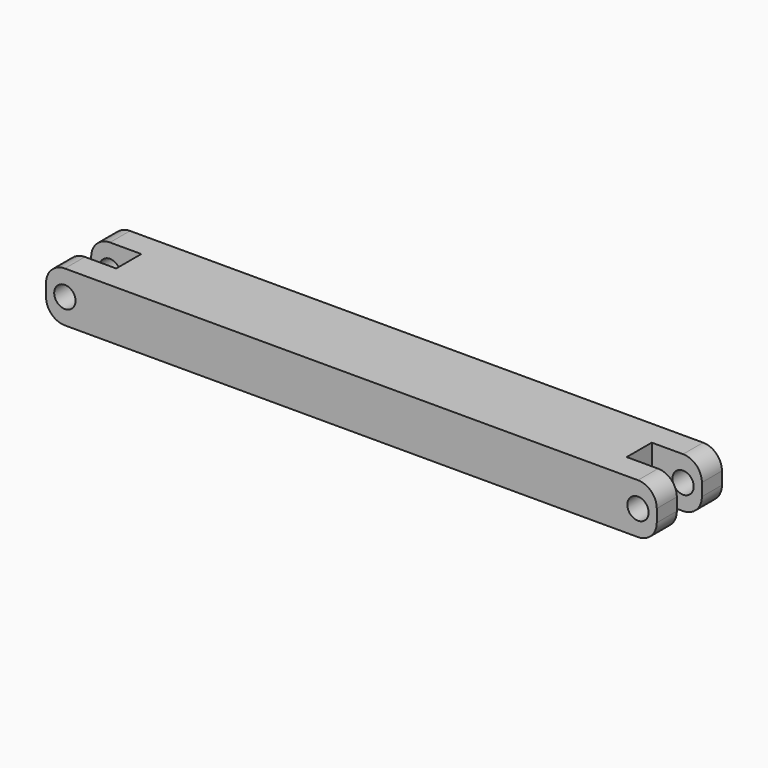
from build123d import *

# Parameters (mm, degrees)
SKETCH_W        = 97.5
SKETCH_H        = 13
PAD_DEPTH       = 8
SKETCH001_R     = 1.7
POCKET_DEPTH    = 20
SKETCH002_W     = 8
SKETCH002_H     = 5
POCKET001_DEPTH = 20
FILLET_R        = 3


with BuildPart() as part:
    # Sketch → Pad (new body)
    with BuildSketch(Plane.XY):
        with Locations((1.25, 0)):
            Rectangle(SKETCH_W, SKETCH_H)
    extrude(amount=PAD_DEPTH)

    # Sketch001 (on Face1 of Pad) → Pocket (cut)
    with BuildSketch(Plane.XZ.offset(6.5)):
        with Locations((-44.5, 4)):
            Circle(SKETCH001_R)
        with Locations((47, 4)):
            Circle(SKETCH001_R)
    extrude(amount=-POCKET_DEPTH, mode=Mode.SUBTRACT)

    # Sketch002 (on Face4 of Pocket) → Pocket001 (cut)
    with BuildSketch(Plane.XY.offset(8)):
        with Locations((-43.5, 0)):
            Rectangle(SKETCH002_W, SKETCH002_H)
        with Locations((46, 0)):
            Rectangle(SKETCH002_W, SKETCH002_H)
    extrude(amount=-POCKET001_DEPTH, mode=Mode.SUBTRACT)

    # Fillet
    fillet_edges = [part.edges().sort_by_distance(p)[0] for p in [
        (50, 4.5, 8),
        (50, -4.5, 8),
        (50, -4.5, 0),
        (50, 4.5, 0),
        (-47.5, -4.5, 8),
        (-47.5, -4.5, 0),
        (-47.5, 4.5, 0),
        (-47.5, 4.5, 8),
    ]]
    fillet(fillet_edges, radius=FILLET_R)


solid = part.part
